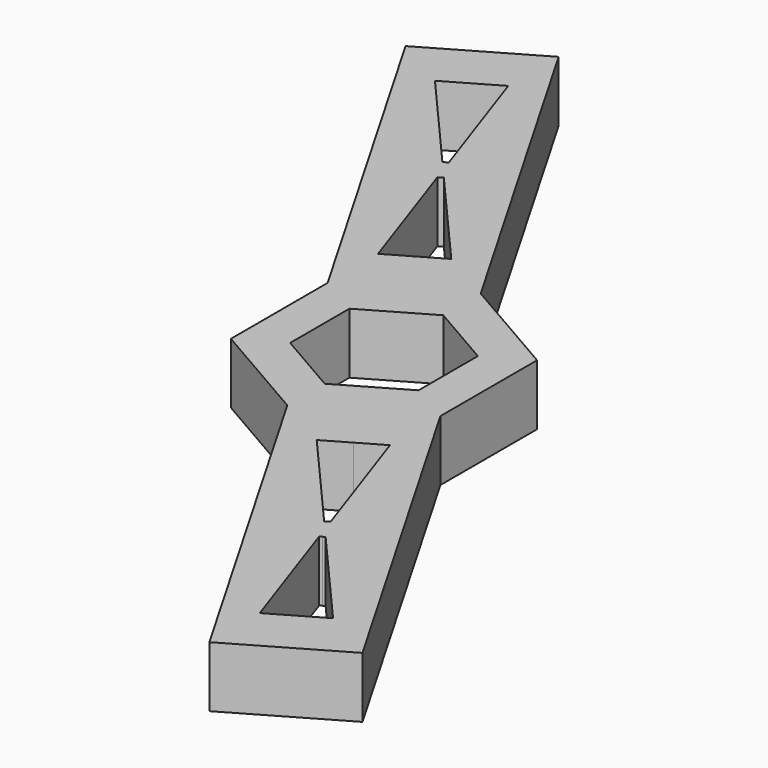
from build123d import *

# Parameters (mm, degrees)
F1_DEPTH = 3.81
F2_DEPTH = 25.4
F4_DEPTH = 25.4
F5_DEPTH = 25.4
F7_DEPTH = 25.4


with BuildPart() as f1:
    # F0 (on Top) → F1 (new body)
    with BuildSketch(Plane.XY):
        Polygon((6.5642443103, 3.7926732977), (-0.0024292689, 7.5811389783), (-6.5666735793, 3.7884656805), (-6.5642443103, -3.7926732977), (0.0024292689, -7.5811389783), (6.5666735793, -3.7884656805), align=None)
        Polygon((-4.0262038002, 2.3228099792), (-0.00148945, 4.6481997614), (4.0247143502, 2.3253897822), (4.0262038002, -2.3228099792), (0.00148945, -4.6481997614), (-4.0247143502, -2.3253897822), align=None, mode=Mode.SUBTRACT)
    extrude(amount=F1_DEPTH)

    # F2 (add): a face of the model
    f2_faces = [f1.faces().sort_by_distance(p)[0] for p in [
        (3.2845514241, -5.6848023294, 1.905),
    ]]
    extrude(f2_faces, amount=F2_DEPTH)

    # F3 (on face) → F4 (cut)
    with BuildSketch(Plane.XY.offset(3.81)):
        Polygon((3.4240530816, -9.5536917259), (9.0931520865, -16.0562525411), (9.3687364086, -15.8970260939), (6.5666733931, -7.7379561169), (4.9953633304, -8.6458238677), align=None)
        Polygon((9.9074144135, -17.4655531656), (12.7094772591, -25.6246232408), (14.2807875079, -24.7167553825), (10.0452065827, -17.3859399373), align=None)
        Polygon((10.0452065827, -17.3859399373), (14.2807875079, -24.7167553825), (15.8520975706, -23.8088876318), (10.1829987356, -17.3063267185), align=None)
    extrude(amount=-F4_DEPTH, mode=Mode.SUBTRACT)

    # F5 (add): a face of the model
    f5_faces = [f1.faces().sort_by_distance(p)[0] for p in [
        (-3.2845514241, 5.6848023294, 1.905),
    ]]
    extrude(f5_faces, amount=F5_DEPTH)

    # F6 (on face) → F7 (cut)
    with BuildSketch(Plane.XY.offset(3.81)):
        Polygon((6.5666733931, -7.7379561169), (3.4240530816, -9.5536917259), (9.0931520865, -16.0562525411), (9.3687364086, -15.8970260939), align=None)
        Polygon((12.7094772591, -25.6246232408), (15.8520975706, -23.8088876318), (10.1829987356, -17.3063267185), (9.9074144135, -17.4655531656), align=None)
        Polygon((-9.3687364249, 15.8970260845), (-6.5666735793, 7.7379560094), (-3.4240532678, 9.5536916184), (-9.0931521028, 16.0562525317), align=None)
        Polygon((-9.9074144298, 17.4655531562), (-12.7094774453, 25.6246231332), (-15.8520977568, 23.8088875242), (-10.1829987519, 17.306326709), align=None)
    extrude(amount=-F7_DEPTH, mode=Mode.SUBTRACT)


solid = f1.part
